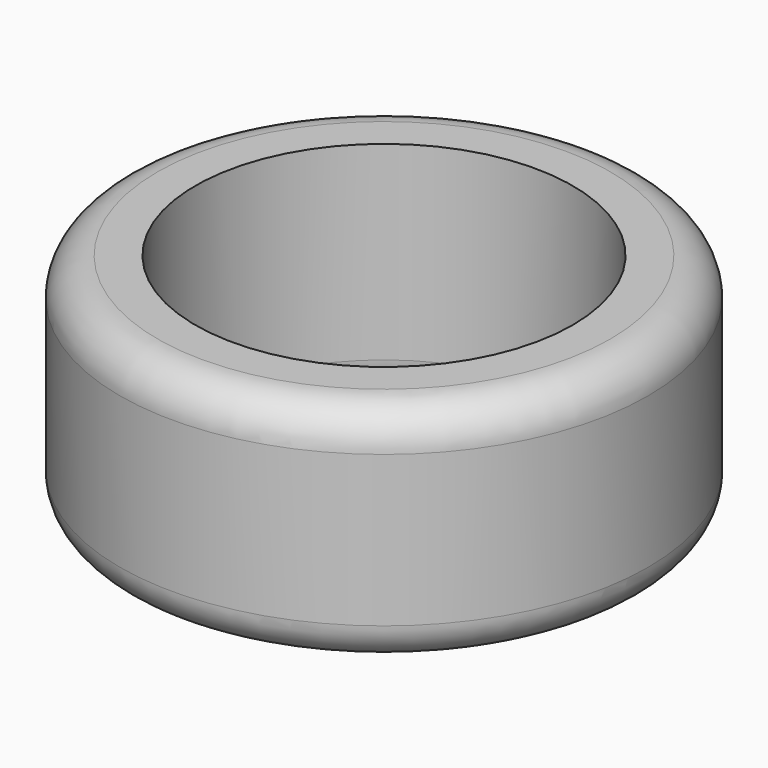
from build123d import *

# Parameters (mm, degrees)
TUBE003_R     = 1.75
TUBE003_R_2   = 1.25
TUBE003_DEPTH = 1.5
FILLET003_1_R = 0.25
FILLET003_2_R = 0.24


with BuildPart() as part:
    # Tube003 → Tube003 (new body)
    with BuildSketch(Plane.XY.offset(-0.5)):
        Circle(TUBE003_R)
        Circle(TUBE003_R_2, mode=Mode.SUBTRACT)
    extrude(amount=TUBE003_DEPTH)

    # Fillet003 1
    fillet003_1_edges = [part.edges().sort_by_distance(p)[0] for p in [
        (-1.75, 0, 1),
        (-1.75, 0, -0.5),
    ]]
    fillet(fillet003_1_edges, radius=FILLET003_1_R)

    # Fillet003 2
    fillet003_2_edges = [part.edges().sort_by_distance(p)[0] for p in [
        (-1.25, 0, -0.5),
    ]]
    fillet(fillet003_2_edges, radius=FILLET003_2_R)


solid = part.part
